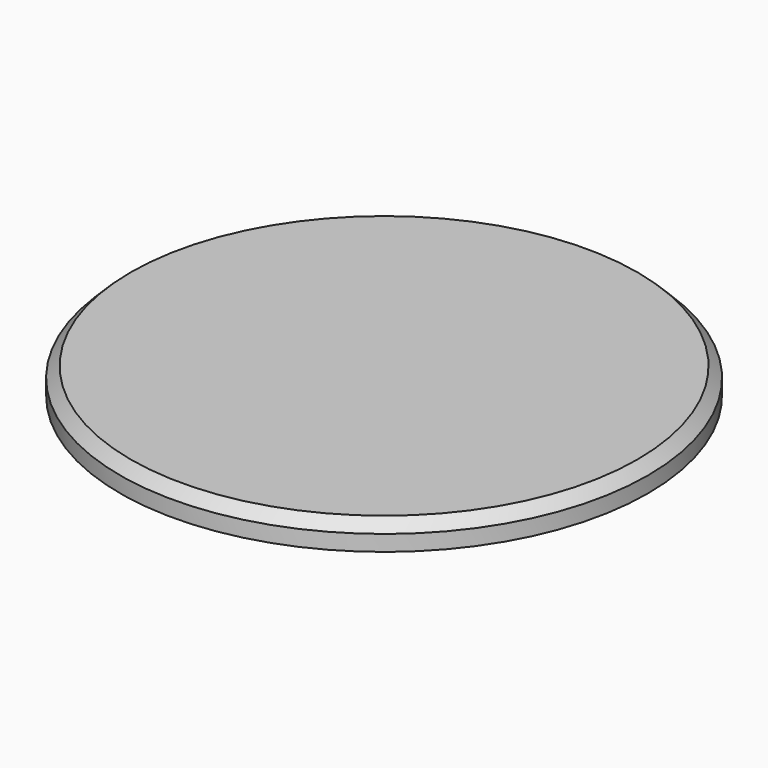
from build123d import *

# Parameters (mm, degrees)
F0_R     = 50
F1_DEPTH = 5
F2_SIZE2 = 2
F2_SIZE  = 2


with BuildPart() as f1:
    # F0 (on Top) → F1 (new body)
    with BuildSketch(Plane.XY):
        Circle(F0_R)
    extrude(amount=F1_DEPTH)

    # F2
    f2_edges = [f1.edges().sort_by_distance(p)[0] for p in [
        (-50, 0, 5),
    ]]
    chamfer(f2_edges, length=F2_SIZE, length2=F2_SIZE2)


solid = f1.part
